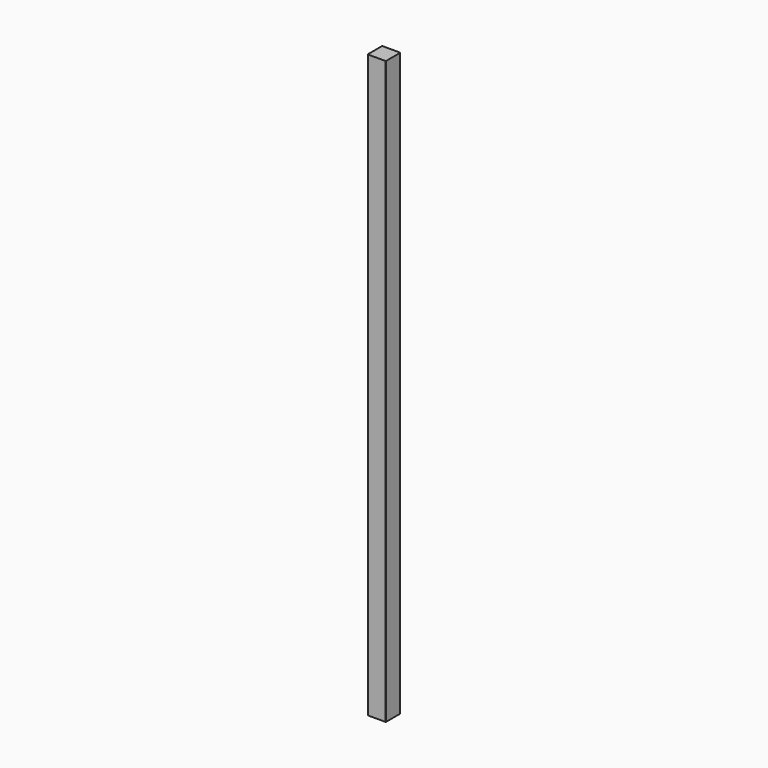
from build123d import *

# Parameters (mm, degrees)
CYLINDER001_R          = 4
CYLINDER001_DEPTH      = 38.1
CYLINDER001_ROLL_ANGLE = 90
ARRAY_Z_COUNT          = 32
ARRAY_Z_PITCH          = 38.1
CYLINDER_R             = 4
CYLINDER_DEPTH         = 38.1
CYLINDER_PITCH_ANGLE   = 90
ARRAY001_Z_COUNT       = 32
ARRAY001_Z_PITCH       = 38.1
BOX001_W               = 32.1
BOX001_H               = 32.1
BOX001_DEPTH           = 1219.2
BOX_W                  = 38.1
BOX_H                  = 38.1
BOX_DEPTH              = 1219.2
FILLET_R               = 1


with BuildPart() as holes1:
    # Cylinder001 → Cylinder001 (new body)
    with BuildSketch(Plane.XY):
        Circle(CYLINDER001_R)
    extrude(amount=CYLINDER001_DEPTH)


with BuildPart() as holes1_1:
    # Cylinder001 roll: moved
    add(holes1.part.rotate(Axis((0, 0, 0), (1, 0, 0)), CYLINDER001_ROLL_ANGLE))


with BuildPart() as holes1_2:
    # Cylinder001 placement: moved
    add(holes1_1.part.moved(Location((19.05, 38.1, 19.05))))

    # Array Z: Holes1 ×32


with BuildPart() as holes1_3:
    add(holes1_2.part)
    with Locations(*[(0, 0, i * ARRAY_Z_PITCH) for i in range(1, ARRAY_Z_COUNT)]):
        add(holes1_2.part)


with BuildPart() as holes2:
    # Cylinder → Cylinder (new body)
    with BuildSketch(Plane.XY):
        Circle(CYLINDER_R)
    extrude(amount=CYLINDER_DEPTH)


with BuildPart() as holes2_1:
    # Cylinder pitch: moved
    add(holes2.part.rotate(Axis((0, 0, 0), (0, 1, 0)), CYLINDER_PITCH_ANGLE))


with BuildPart() as holes2_2:
    # Cylinder placement: moved
    add(holes2_1.part.moved(Location((0, 19.05, 19.05))))

    # Array001 Z: Holes2 ×32


with BuildPart() as holes2_3:
    add(holes2_2.part)
    with Locations(*[(0, 0, i * ARRAY001_Z_PITCH) for i in range(1, ARRAY001_Z_COUNT)]):
        add(holes2_2.part)


with BuildPart() as cutout:
    # Box001 → Box001 (new body)
    with BuildSketch(Plane(origin=(3, 3, 0), x_dir=(1, 0, 0), z_dir=(0, 0, 1))):
        with Locations((16.05, 16.05)):
            Rectangle(BOX001_W, BOX001_H)
    extrude(amount=BOX001_DEPTH)


with BuildPart() as fillet_body:
    # Box → Box (new body)
    with BuildSketch(Plane.XY):
        with Locations((19.05, 19.05)):
            Rectangle(BOX_W, BOX_H)
    extrude(amount=BOX_DEPTH)

    # Fillet
    fillet_edges = [fillet_body.edges().sort_by_distance(p)[0] for p in [
        (0, 0, 609.6),
        (38.1, 0, 609.6),
        (38.1, 38.1, 609.6),
        (0, 38.1, 609.6),
    ]]
    fillet(fillet_edges, radius=FILLET_R)


solid = Compound([holes1_3.part, holes2_3.part, cutout.part, fillet_body.part])
